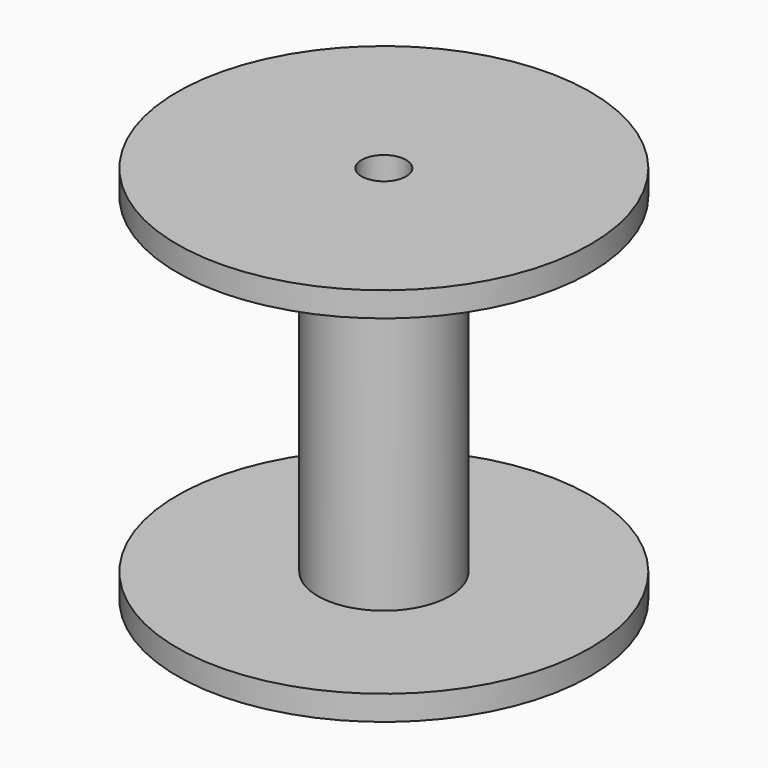
from build123d import *

# Parameters (mm, degrees)
F0_R     = 12.5
F1_DEPTH = 1.5
F2_R     = 4
F2_R_2   = 1.4
F3_DEPTH = 20
F4_R     = 12.5
F4_R_2   = 1.35
F5_DEPTH = 1.5


with BuildPart() as f1:
    # F0 (on Top) → F1 (new body)
    with BuildSketch(Plane.XY):
        Circle(F0_R)
    extrude(amount=F1_DEPTH)

    # F2 (on face) → F3 (join)
    with BuildSketch(Plane.XY.offset(1.5)):
        Circle(F2_R)
        Circle(F2_R_2, mode=Mode.SUBTRACT)
    extrude(amount=F3_DEPTH)


with BuildPart() as f5:
    # F4 (on face) → F5 (new body)
    with BuildSketch(Plane.XY.offset(21.5)):
        Circle(F4_R)
        Circle(F4_R_2, mode=Mode.SUBTRACT)
    extrude(amount=F5_DEPTH)


solid = Compound([f1.part, f5.part])
